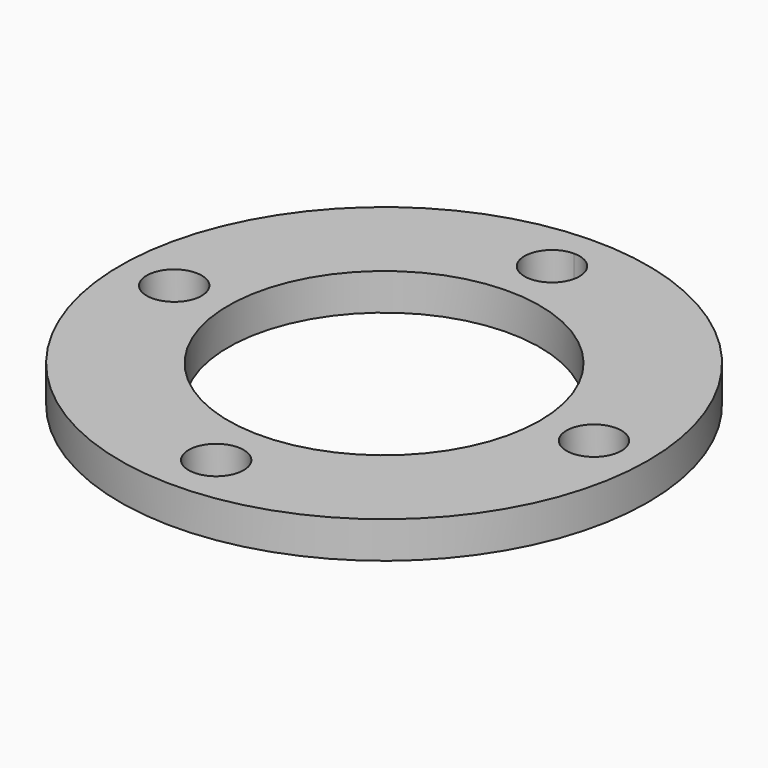
from build123d import *

# Parameters (mm, degrees)
F0_R     = 22.86
F0_R_2   = 13.49375
F1_DEPTH = 3.175
F2_R     = 2.38125
F3_DEPTH = 25.4


with BuildPart() as f1:
    # F0 (on Top) → F1 (new body)
    with BuildSketch(Plane.XY):
        Circle(F0_R)
        Circle(F0_R_2, mode=Mode.SUBTRACT)
    extrude(amount=F1_DEPTH)

    # F2 (on face) → F3 (cut)
    with BuildSketch(Plane.XY.offset(3.175)):
        with BuildLine():
            ThreePointArc((2.38125, 18.176875), (1.683798, 19.860673), (0, 20.558125))
            Line((0, 20.558125), (0, 15.795625))
            ThreePointArc((0, 15.795625), (1.683798, 16.493077), (2.38125, 18.176875))
        make_face()
        with BuildLine():
            Line((0, 15.795625), (0, 20.558125))
            ThreePointArc((0, 20.558125), (-2.38125, 18.176875), (0, 15.795625))
        make_face()
        with Locations((-18.176875, 0)):
            Circle(F2_R)
        with Locations((0, -18.176875)):
            Circle(F2_R)
        with Locations((18.176875, 0)):
            Circle(F2_R)
    extrude(amount=-F3_DEPTH, mode=Mode.SUBTRACT)


solid = f1.part
